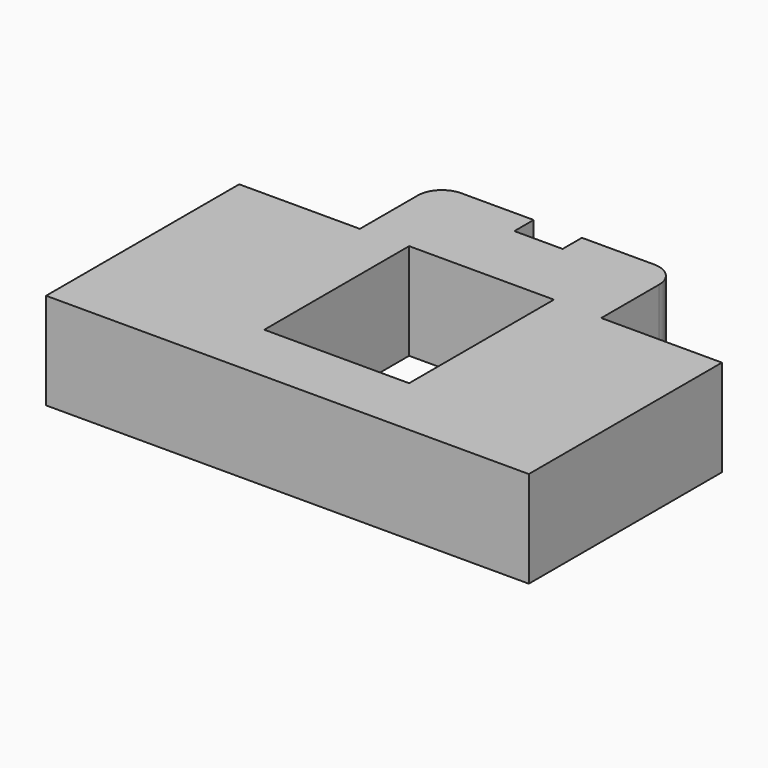
from build123d import *

# Parameters (mm, degrees)
F1_DEPTH = 2
F2_R     = 0.5


with BuildPart() as f1:
    # F0 (on Top) → F1 (new body)
    with BuildSketch(Plane.XY):
        Polygon((1.5, 1.875), (1.5, 1.85), (2.5, 1.85), (2.5, 3.85), (0.5, 3.85), (0.5, 3.35), (-0.5, 3.35), (-0.5, 3.85), (-2.5, 3.85), (-2.5, 1.85), (-1.5, 1.85), (-1.5, 1.875), align=None)
        Polygon((1.5, 1.85), (1.5, -1.875), (-1.5, -1.875), (-1.5, 1.85), (-2.5, 1.85), (-5, 1.85), (-5, -3.15), (5, -3.15), (5, 1.85), (2.5, 1.85), align=None)
    extrude(amount=F1_DEPTH)

    # F2
    f2_edges = [f1.edges().sort_by_distance(p)[0] for p in [
        (-2.5, 3.85, 1),
        (2.5, 3.85, 1),
    ]]
    fillet(f2_edges, radius=F2_R)


solid = f1.part
